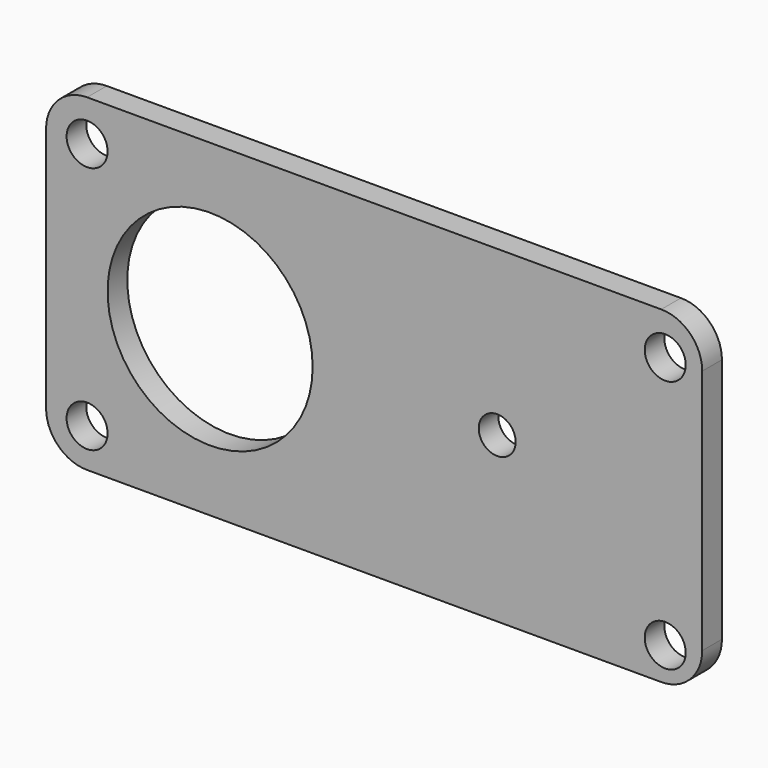
from build123d import *

# Parameters (mm, degrees)
F0_W     = 80
F0_H     = 40
F0_R     = 2.5
F0_R_2   = 12.5
F0_R_3   = 2.25
F1_DEPTH = 3
F2_R     = 5


with BuildPart() as f1:
    # F0 (on Front) → F1 (new body)
    with BuildSketch(Plane.XZ):
        Rectangle(F0_W, F0_H)
        with Locations((-35, -15.260881)):
            Circle(F0_R, mode=Mode.SUBTRACT)
        with Locations((35.486974, -15.883215)):
            Circle(F0_R, mode=Mode.SUBTRACT)
        with Locations((-20, 0)):
            Circle(F0_R_2, mode=Mode.SUBTRACT)
        with Locations((-35, 15)):
            Circle(F0_R, mode=Mode.SUBTRACT)
        with Locations((15, 0)):
            Circle(F0_R_3, mode=Mode.SUBTRACT)
        with Locations((35.486974, 15)):
            Circle(F0_R, mode=Mode.SUBTRACT)
    extrude(amount=F1_DEPTH)

    # F2
    f2_edges = [f1.edges().sort_by_distance(p)[0] for p in [
        (-40, -1.5, 20),
        (40, -1.5, 20),
        (40, -1.5, -20),
        (-40, -1.5, -20),
    ]]
    fillet(f2_edges, radius=F2_R)


solid = f1.part
